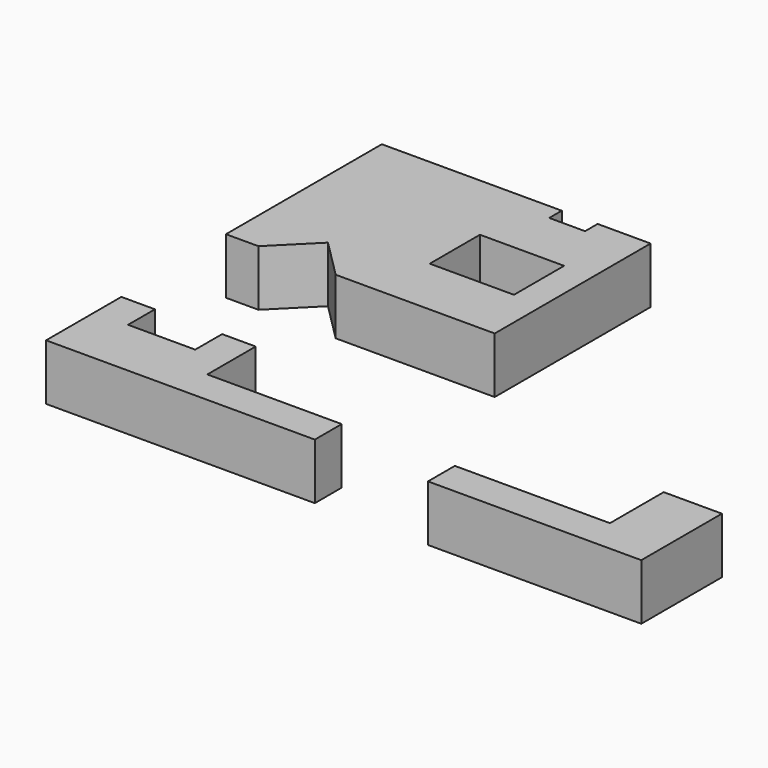
from build123d import *

# Parameters (mm, degrees)
F0_W     = 37.6
F0_H     = 28
F0_W_2   = 15
F0_H_2   = 26
F0_W_3   = 30
F0_W_4   = 14.5
F0_H_3   = 15
F0_W_5   = 17.25
F1_DEPTH = 25


with BuildPart() as f1:
    # F0 (on Top) → F1 (new body)
    with BuildSketch(Plane.XY):
        Polygon((-60, 61), (-60, 0), (-45.5, 0), (-28.25, 17.25), (-11, 0), (60, 0), (60, 87), (36.350874, 87), (36.350874, 80), (20.350874, 80), (20.350874, 87), (0, 87), (0, 61), (-15, 61), (-45, 61), align=None)
        with Locations((28.2, 41)):
            Rectangle(F0_W, F0_H, mode=Mode.SUBTRACT)
        with Locations((-52.5, 74)):
            Rectangle(F0_W_2, F0_H_2)
        with Locations((-30, 74)):
            Rectangle(F0_W_3, F0_H_2)
        with Locations((-7.5, 74)):
            Rectangle(F0_W_2, F0_H_2)
        Polygon((-43.911685, -59.75034), (-58.911685, -59.75034), (-58.911685, -86.75034), (-44.411685, -86.75034), (-27.161685, -86.75034), (-9.911685, -86.75034), (1.088315, -86.75034), (1.088315, -59.75034), (-13.911685, -59.75034), (-13.911685, -74.75034), (-43.911685, -74.75034), align=None)
        with Locations((-51.661685, -94.25034)):
            Rectangle(F0_W_4, F0_H_3)
        with Locations((-35.786685, -94.25034)):
            Rectangle(F0_W_5, F0_H_3)
        with Locations((-18.536685, -94.25034)):
            Rectangle(F0_W_5, F0_H_3)
        Polygon((1.088315, -86.75034), (-9.911685, -86.75034), (-9.911685, -101.75034), (10.488315, -101.75034), (25.088315, -101.75034), (41.088315, -101.75034), (48.088315, -101.75034), (61.088315, -101.75034), (61.088315, -86.75034), (48.088315, -86.75034), (41.088315, -86.75034), (25.088315, -86.75034), (10.488315, -86.75034), align=None)
        Polygon((111.609705, -86.750337), (111.609705, -101.750337), (133.490902, -101.750337), (142.500803, -101.750337), (167.728529, -101.750337), (196.560229, -101.750337), (206.857255, -101.750337), (206.857255, -86.750337), (196.560229, -86.750337), (180.857255, -86.750337), (167.728529, -86.750337), (142.500803, -86.750337), (133.490902, -86.750337), align=None)
        Polygon((180.857255, -71.750337), (180.857255, -86.750337), (196.560229, -86.750337), (206.857255, -86.750337), (206.857255, -71.750337), (206.857255, -56.750337), (180.857255, -56.750337), align=None)
    extrude(amount=F1_DEPTH)


solid = f1.part
